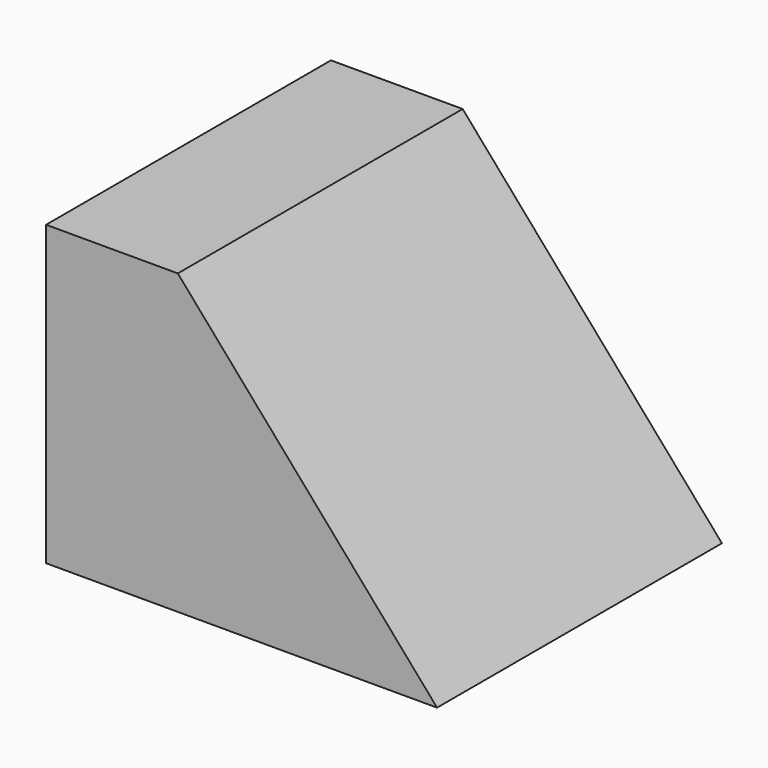
from build123d import *

# Parameters (mm, degrees)
F0_W     = 55.7858683169
F0_H     = 42.5178781152
F1_DEPTH = 25.4
F2_DEPTH = 25.4
F4_DEPTH = 25.4
F5_DEPTH = 25.4


with BuildPart() as f1:
    # F0 (on Front) → F1 (new body)
    with BuildSketch(Plane.XZ):
        with Locations((27.8929341584, 21.2589390576)):
            Rectangle(F0_W, F0_H)
    extrude(amount=F1_DEPTH)

    # F2 (add): a face of the model
    f2_faces = [f1.faces().sort_by_distance(p)[0] for p in [
        (27.8929341584, -25.4, 21.2589390576),
    ]]
    extrude(f2_faces, amount=F2_DEPTH)

    # F3 (on face) → F4 (cut)
    with BuildSketch(Plane.XZ.offset(50.8)):
        Polygon((55.7858683169, 42.5178781152), (18.7963210046, 42.5178781152), (55.7858683169, 0), align=None)
    extrude(amount=-F4_DEPTH, mode=Mode.SUBTRACT)

    # F5 (cut): a face of the model
    f5_faces = [f1.faces().sort_by_distance(p)[0] for p in [
        (43.4560192128, -25.4, 28.3452520768),
    ]]
    extrude(f5_faces, amount=-F5_DEPTH, mode=Mode.SUBTRACT)


solid = f1.part
